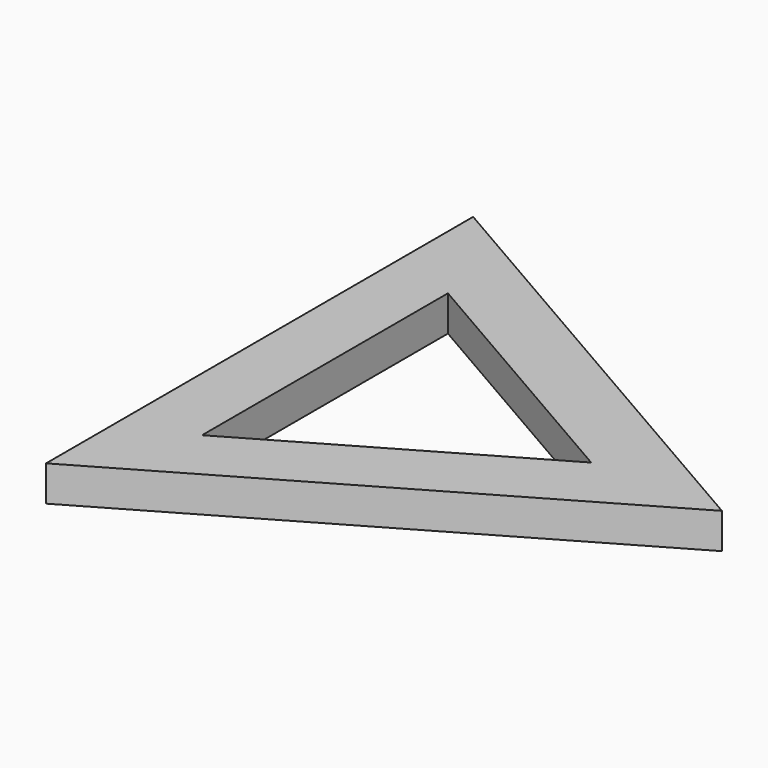
from build123d import *

# Parameters (mm, degrees)
PRISM001_DEPTH = 19
PRISM_DEPTH    = 19


with BuildPart() as prism001:
    # Prism001 → Prism001 (new body)
    with BuildSketch(Plane.XY):
        Polygon((95, 0), (-47.5, 82.272413), (-47.5, -82.272413), align=None)
    extrude(amount=PRISM001_DEPTH)


with BuildPart() as cut:
    # Prism → Prism (new body)
    with BuildSketch(Plane.XY):
        Polygon((165, 0), (-82.5, 142.894192), (-82.5, -142.894192), align=None)
    extrude(amount=PRISM_DEPTH)

    # Cut: cut Prism001
    add(prism001.part, mode=Mode.SUBTRACT)


solid = cut.part
